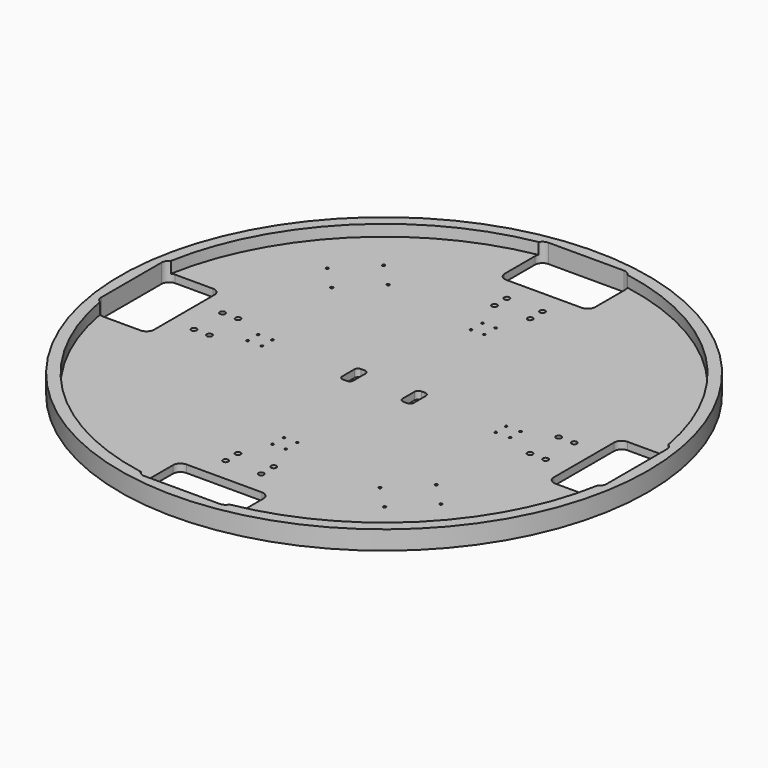
from build123d import *

# Parameters (mm, degrees)
F0_R      = 350
F1_DEPTH  = 25
F3_DEPTH  = 25
F4_R      = 335
F5_DEPTH  = 15
F6_R      = 2
F6_R_2    = 1.5
F7_DEPTH  = 25
F8_R      = 3.55
F9_DEPTH  = 4
F11_DEPTH = 25
F12_R     = 1.778
F13_DEPTH = 25


with BuildPart() as f1:
    # F0 (on Top) → F1 (new body)
    with BuildSketch(Plane.XY):
        Circle(F0_R)
    extrude(amount=F1_DEPTH)

    # F2 (on face) → F3 (cut)
    with BuildSketch(Plane.XY.offset(25)):
        with BuildLine():
            Line((50, 335), (0, 335))
            Line((0, 335), (0, 265))
            Line((0, 265), (50, 265))
            ThreePointArc((50, 265), (57.071068, 267.928932), (60, 275))
            Line((60, 275), (60, 325))
            ThreePointArc((60, 325), (57.071068, 332.071068), (50, 335))
        make_face()
        with BuildLine():
            Line((265, 50), (265, 0))
            Line((265, 0), (335, 0))
            Line((335, 0), (335, 50))
            ThreePointArc((335, 50), (332.071068, 57.071068), (325, 60))
            Line((325, 60), (275, 60))
            ThreePointArc((275, 60), (267.928932, 57.071068), (265, 50))
        make_face()
        with BuildLine():
            Line((335, 0), (265, 0))
            Line((265, 0), (265, -50))
            ThreePointArc((265, -50), (267.928932, -57.071068), (275, -60))
            Line((275, -60), (325, -60))
            ThreePointArc((325, -60), (332.071068, -57.071068), (335, -50))
            Line((335, -50), (335, 0))
        make_face()
        with BuildLine():
            Line((50, -265), (0, -265))
            Line((0, -265), (0, -335))
            Line((0, -335), (50, -335))
            ThreePointArc((50, -335), (57.071068, -332.071068), (60, -325))
            Line((60, -325), (60, -275))
            ThreePointArc((60, -275), (57.071068, -267.928932), (50, -265))
        make_face()
        with BuildLine():
            Line((0, -335), (0, -265))
            Line((0, -265), (-50, -265))
            ThreePointArc((-50, -265), (-57.071068, -267.928932), (-60, -275))
            Line((-60, -275), (-60, -325))
            ThreePointArc((-60, -325), (-57.071068, -332.071068), (-50, -335))
            Line((-50, -335), (0, -335))
        make_face()
        with BuildLine():
            Line((-265, -50), (-265, 0))
            Line((-265, 0), (-335, 0))
            Line((-335, 0), (-335, -50))
            ThreePointArc((-335, -50), (-332.071068, -57.071068), (-325, -60))
            Line((-325, -60), (-275, -60))
            ThreePointArc((-275, -60), (-267.928932, -57.071068), (-265, -50))
        make_face()
        with BuildLine():
            Line((-335, 0), (-265, 0))
            Line((-265, 0), (-265, 50))
            ThreePointArc((-265, 50), (-267.928932, 57.071068), (-275, 60))
            Line((-275, 60), (-325, 60))
            ThreePointArc((-325, 60), (-332.071068, 57.071068), (-335, 50))
            Line((-335, 50), (-335, 0))
        make_face()
        with BuildLine():
            Line((0, 265), (0, 335))
            Line((0, 335), (-50, 335))
            ThreePointArc((-50, 335), (-57.071068, 332.071068), (-60, 325))
            Line((-60, 325), (-60, 275))
            ThreePointArc((-60, 275), (-57.071068, 267.928932), (-50, 265))
            Line((-50, 265), (0, 265))
        make_face()
    extrude(amount=-F3_DEPTH, mode=Mode.SUBTRACT)

    # F4 (on face) → F5 (cut)
    with BuildSketch(Plane.XY.offset(25)):
        Circle(F4_R)
    extrude(amount=-F5_DEPTH, mode=Mode.SUBTRACT)

    # F6 (on face) → F7 (cut)
    with BuildSketch(Plane.XY.offset(10)):
        with Locations((-233.162066, 23.69)):
            Circle(F6_R)
        with BuildLine():
            Line((-214.542066, 23.69), (-210.542066, 23.69))
            ThreePointArc((-210.542066, 23.69), (-212.542066, 25.69), (-214.542066, 23.69))
        make_face()
        with BuildLine():
            ThreePointArc((-214.542066, 23.69), (-212.542066, 21.69), (-210.542066, 23.69))
            Line((-210.542066, 23.69), (-214.542066, 23.69))
        make_face()
        with Locations((-233.162066, -23.69)):
            Circle(F6_R)
        with BuildLine():
            Line((-214.542066, -23.69), (-210.542066, -23.69))
            ThreePointArc((-210.542066, -23.69), (-212.542066, -21.69), (-214.542066, -23.69))
        make_face()
        with BuildLine():
            ThreePointArc((-214.542066, -23.69), (-212.542066, -25.69), (-210.542066, -23.69))
            Line((-210.542066, -23.69), (-214.542066, -23.69))
        make_face()
        with Locations((-23.69, -233.162066)):
            Circle(F6_R)
        with Locations((-23.69, -212.542066)):
            Circle(F6_R)
        with Locations((23.69, -212.542066)):
            Circle(F6_R)
        with Locations((23.69, -233.162066)):
            Circle(F6_R)
        with Locations((233.162066, -23.69)):
            Circle(F6_R)
        with Locations((212.542066, -23.69)):
            Circle(F6_R)
        with Locations((212.542066, 23.69)):
            Circle(F6_R)
        with Locations((233.162066, 23.69)):
            Circle(F6_R)
        with Locations((23.69, 233.162066)):
            Circle(F6_R)
        with Locations((23.69, 212.542066)):
            Circle(F6_R)
        with Locations((-23.69, 212.542066)):
            Circle(F6_R)
        with Locations((-23.69, 233.162066)):
            Circle(F6_R)
        with Locations((-173.937469, 8.69)):
            Circle(F6_R_2)
        with Locations((-173.937469, -8.69)):
            Circle(F6_R_2)
        with Locations((-155, 8.69)):
            Circle(F6_R_2)
        with Locations((-8.69, -173.937469)):
            Circle(F6_R_2)
        with Locations((-8.69, -155)):
            Circle(F6_R_2)
        with Locations((8.69, -173.937469)):
            Circle(F6_R_2)
        with Locations((173.937469, -8.69)):
            Circle(F6_R_2)
        with Locations((155, -8.69)):
            Circle(F6_R_2)
        with Locations((173.937469, 8.69)):
            Circle(F6_R_2)
        with Locations((8.69, 173.937469)):
            Circle(F6_R_2)
        with Locations((8.69, 155)):
            Circle(F6_R_2)
        with Locations((-8.69, 173.937469)):
            Circle(F6_R_2)
        with Locations((-155, -8.69)):
            Circle(F6_R_2)
        with Locations((8.69, -155)):
            Circle(F6_R_2)
        with Locations((155, 8.69)):
            Circle(F6_R_2)
        with Locations((-8.69, 155)):
            Circle(F6_R_2)
    extrude(amount=-F7_DEPTH, mode=Mode.SUBTRACT)

    # F8 (on face) → F9 (cut)
    with BuildSketch(Plane.XY.offset(10)):
        with Locations((23.69, 233.162066)):
            Circle(F8_R)
        with Locations((23.69, 212.542066)):
            Circle(F8_R)
        with Locations((-23.69, 233.162066)):
            Circle(F8_R)
        with Locations((-23.69, 212.542066)):
            Circle(F8_R)
        with Locations((-212.542066, 23.69)):
            Circle(F8_R)
        with Locations((-233.162066, 23.69)):
            Circle(F8_R)
        with Locations((-233.162066, -23.69)):
            Circle(F8_R)
        with Locations((-212.542066, -23.69)):
            Circle(F8_R)
        with Locations((-23.69, -212.542066)):
            Circle(F8_R)
        with Locations((-23.69, -233.162066)):
            Circle(F8_R)
        with Locations((23.69, -233.162066)):
            Circle(F8_R)
        with Locations((23.69, -212.542066)):
            Circle(F8_R)
        with Locations((212.542066, -23.69)):
            Circle(F8_R)
        with Locations((233.162066, -23.69)):
            Circle(F8_R)
        with Locations((233.162066, 23.69)):
            Circle(F8_R)
        with Locations((212.542066, 23.69)):
            Circle(F8_R)
    extrude(amount=-F9_DEPTH, mode=Mode.SUBTRACT)

    # F10 (on face) → F11 (cut)
    with BuildSketch(Plane.XY.offset(10)):
        with BuildLine():
            Line((-47.5, 10), (-47.5, 0))
            Line((-47.5, 0), (-32.5, 0))
            Line((-32.5, 0), (-32.5, 10))
            ThreePointArc((-32.5, 10), (-33.964466, 13.535534), (-37.5, 15))
            Line((-37.5, 15), (-42.5, 15))
            ThreePointArc((-42.5, 15), (-46.035534, 13.535534), (-47.5, 10))
        make_face()
        with BuildLine():
            Line((-32.5, 0), (-47.5, 0))
            Line((-47.5, 0), (-47.5, -10))
            ThreePointArc((-47.5, -10), (-46.035534, -13.535534), (-42.5, -15))
            Line((-42.5, -15), (-37.5, -15))
            ThreePointArc((-37.5, -15), (-33.964466, -13.535534), (-32.5, -10))
            Line((-32.5, -10), (-32.5, 0))
        make_face()
        with BuildLine():
            Line((32.5, 10), (32.5, 0))
            Line((32.5, 0), (47.5, 0))
            Line((47.5, 0), (47.5, 10))
            ThreePointArc((47.5, 10), (46.035534, 13.535534), (42.5, 15))
            Line((42.5, 15), (37.5, 15))
            ThreePointArc((37.5, 15), (33.964466, 13.535534), (32.5, 10))
        make_face()
        with BuildLine():
            Line((47.5, 0), (32.5, 0))
            Line((32.5, 0), (32.5, -10))
            ThreePointArc((32.5, -10), (33.964466, -13.535534), (37.5, -15))
            Line((37.5, -15), (42.5, -15))
            ThreePointArc((42.5, -15), (46.035534, -13.535534), (47.5, -10))
            Line((47.5, -10), (47.5, 0))
        make_face()
    extrude(amount=-F11_DEPTH, mode=Mode.SUBTRACT)

    # F12 (on face) → F13 (cut)
    with BuildSketch(Plane.XY.offset(10)):
        with Locations((-169.697342, 211.186125)):
            Circle(F12_R)
        with Locations((-211.186125, 169.697342)):
            Circle(F12_R)
        with Locations((-180.315964, 138.827181)):
            Circle(F12_R)
        with Locations((-138.827181, 180.315964)):
            Circle(F12_R)
        with Locations((211.186125, -169.697342)):
            Circle(F12_R)
        with Locations((180.315964, -138.827181)):
            Circle(F12_R)
        with Locations((138.827181, -180.315964)):
            Circle(F12_R)
        with Locations((169.697342, -211.186125)):
            Circle(F12_R)
    extrude(amount=-F13_DEPTH, mode=Mode.SUBTRACT)


solid = f1.part
